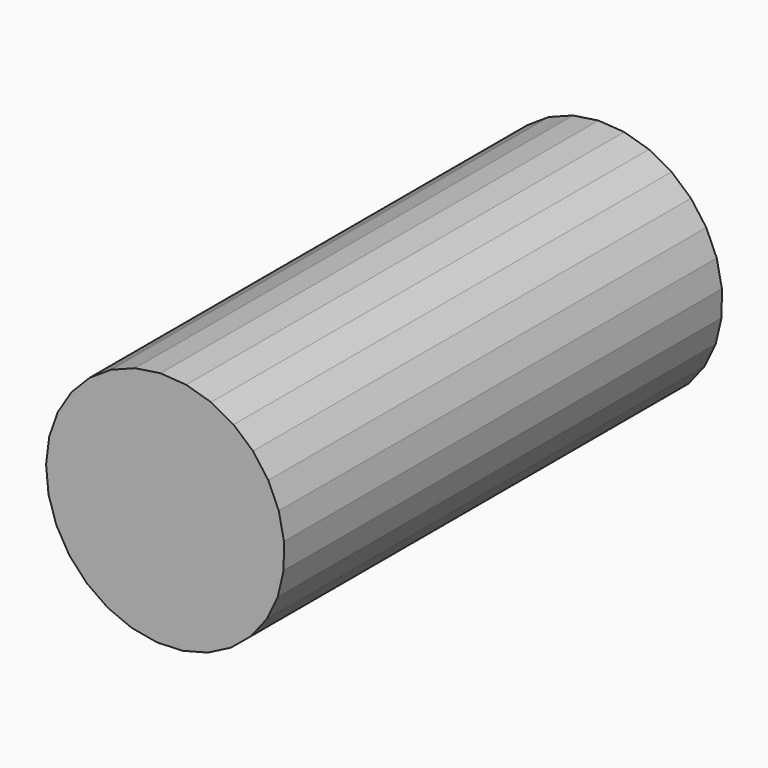
from build123d import *

# Parameters (mm, degrees)
F1_DEPTH = 63.5


with BuildPart() as f1:
    # F0 (on Front) → F1 (new body, symmetric)
    with BuildSketch(Plane.XZ):
        Polygon((-25.263004, -11.258429), (-22.252139, -16.426012), (-18.200789, -20.825533), (-13.298391, -24.251275), (-7.774175, -26.543055), (-1.886447, -27.593711), (4.08949, -27.354116), (9.874206, -25.835472), (15.197215, -23.108791), (19.80962, -19.301568), (23.495748, -14.591825), (26.083242, -9.199785), (27.451112, -3.377573), (27.535399, 2.60257), (26.332161, 8.46102), (23.89766, 13.923843), (20.345732, 18.735601), (15.842459, 22.671304), (10.598411, 25.546922), (4.858793, 27.227995), (-1.108017, 27.635916), (-7.023017, 26.751613), (-12.609629, 24.616434), (-17.606628, 21.330218), (-21.780362, 17.046625), (-24.935669, 11.96595), (-26.925013, 6.325761), (-27.655373, 0.389787), (-27.092598, -5.564414), align=None)
    extrude(amount=F1_DEPTH, both=True)


solid = f1.part
